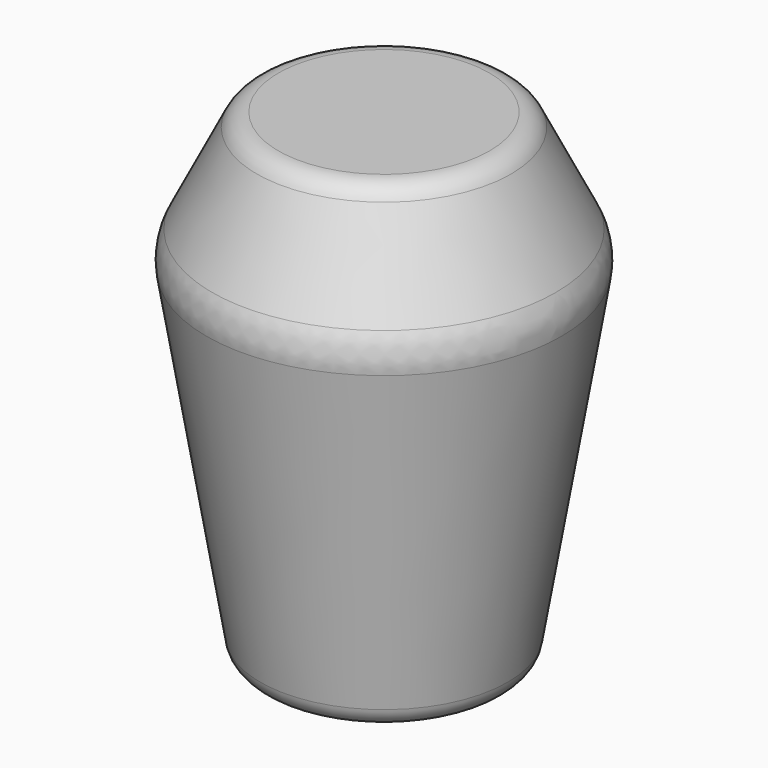
from build123d import *

# Parameters (mm, degrees)
F2_R     = 3.025775
F3_DEPTH = 11.43
F4_R     = 1.27
F5_R     = 3.175


with BuildPart() as f1:
    # F0 (on Front) → F1 (revolve)
    with BuildSketch(Plane.XZ):
        Polygon((0, 25.4), (0, 0), (6.35, 0), (9.525, 19.05), (6.35, 25.4), align=None)
    revolve(axis=Axis((0, 0, 12.7), (0, 0, 1)))

    # F2 (on face) → F3 (cut)
    with BuildSketch(Plane(origin=(0, 0, 0), x_dir=(1, 0, 0), z_dir=(0, 0, -1))):
        Circle(F2_R)
    extrude(amount=-F3_DEPTH, mode=Mode.SUBTRACT)

    # F4
    f4_edges = [f1.edges().sort_by_distance(p)[0] for p in [
        (-3.025775, 0, 0),
        (-6.35, 0, 25.4),
        (-6.35, 0, 0),
    ]]
    fillet(f4_edges, radius=F4_R)

    # F5
    f5_edges = [f1.edges().sort_by_distance(p)[0] for p in [
        (-9.525, 0, 19.05),
    ]]
    fillet(f5_edges, radius=F5_R)


solid = f1.part
